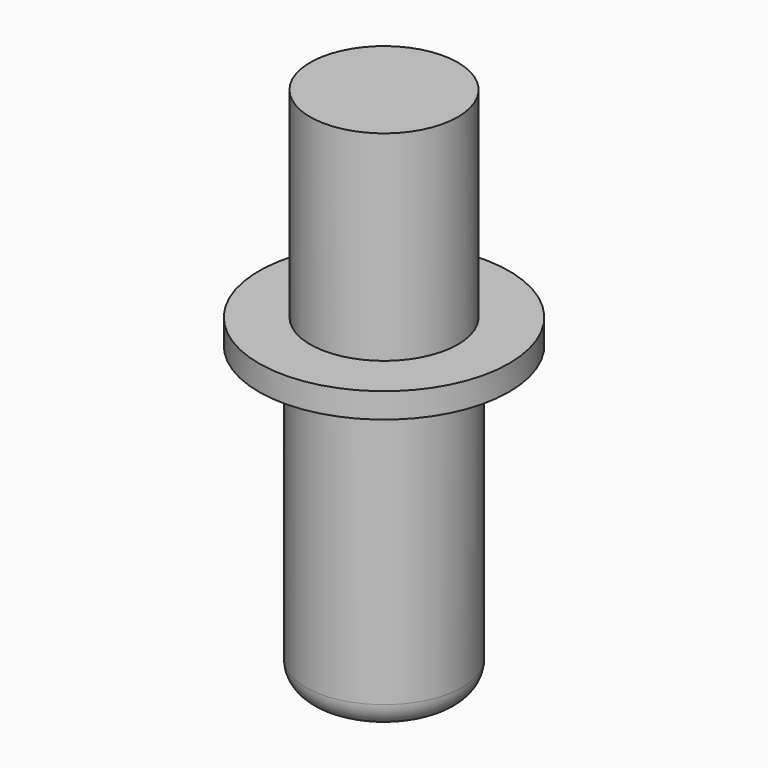
from build123d import *

# Parameters (mm, degrees)
F0_R     = 2.95
F1_DEPTH = 9
F0_R_2   = 5
F0_R_3   = 3.125
F2_DEPTH = 1
F3_DEPTH = 12
F4_R     = 1


with BuildPart() as f1:
    # F0 (on Top) → F1 (new body)
    with BuildSketch(Plane.XY):
        Circle(F0_R)
    extrude(amount=F1_DEPTH)

    # F0 (on Top) → F2 (join)
    with BuildSketch(Plane.XY):
        Circle(F0_R_2)
        Circle(F0_R_3, mode=Mode.SUBTRACT)
        Circle(F0_R_3)
        Circle(F0_R, mode=Mode.SUBTRACT)
    extrude(amount=F2_DEPTH)

    # F0 (on Top) → F3 (join)
    with BuildSketch(Plane.XY):
        Circle(F0_R_3)
        Circle(F0_R, mode=Mode.SUBTRACT)
        Circle(F0_R)
    extrude(amount=-F3_DEPTH)

    # F4
    f4_edges = [f1.edges().sort_by_distance(p)[0] for p in [
        (-3.125, 0, -12),
    ]]
    fillet(f4_edges, radius=F4_R)


solid = f1.part
